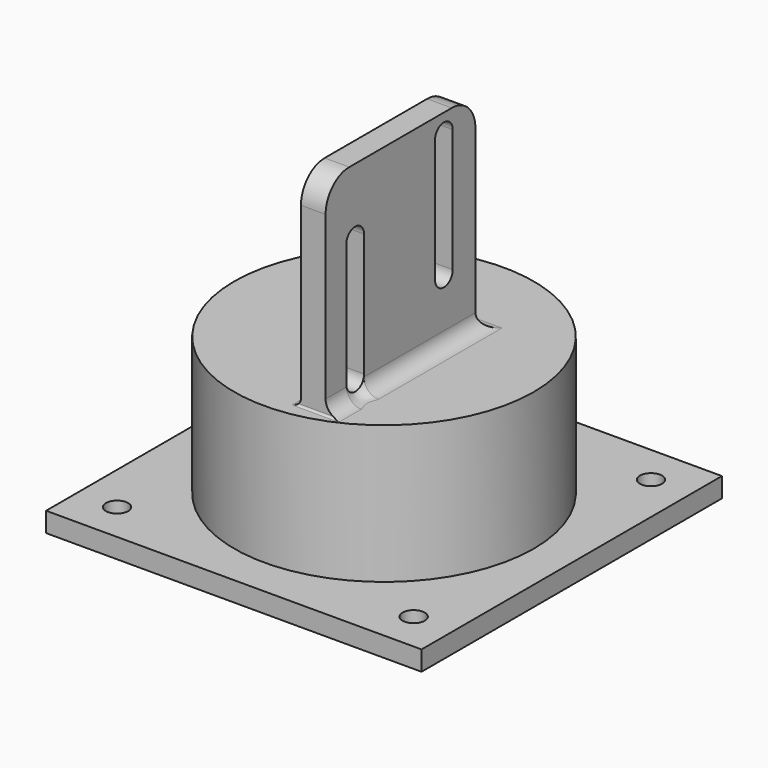
from build123d import *

# Parameters (mm, degrees)
SKETCH_W        = 76.2
SKETCH_H        = 76.2
PAD_DEPTH       = 4
SKETCH001_R     = 25.4
POCKET_DEPTH    = 4.001
SKETCH002_R     = 2.25
POCKET001_DEPTH = 4.001
SKETCH003_R     = 30.4
SKETCH003_R_2   = 25.4
PAD001_DEPTH    = 25
SKETCH004_R     = 30.4
PAD002_DEPTH    = 3
SKETCH005_W     = 6
SKETCH005_H     = 11
POCKET002_DEPTH = 32.001
SKETCH006_W     = 5
SKETCH006_H     = 38
PAD003_DEPTH    = 42
POCKET003_DEPTH = 33.351
FILLET_R        = 1.5
FILLET001_R     = 3
FILLET002_R     = 0.4
FILLET003_R     = 3
FILLET004_R     = 6


with BuildPart() as part:
    # Sketch → Pad (new body)
    with BuildSketch(Plane.XY):
        Rectangle(SKETCH_W, SKETCH_H)
    extrude(amount=PAD_DEPTH)

    # Sketch001 (on Face6 of Pad) → Pocket (cut, through all)
    with BuildSketch(Plane.XY.offset(4)):
        Circle(SKETCH001_R)
    extrude(amount=-POCKET_DEPTH, mode=Mode.SUBTRACT)

    # Sketch002 (on Face5 of Pocket) → Pocket001 (cut, through all)
    with BuildSketch(Plane.XY.offset(4)):
        with Locations((-30.1, -30.1)):
            Circle(SKETCH002_R)
        with Locations((30.1, -30.1)):
            Circle(SKETCH002_R)
        with Locations((30.1, 30.1)):
            Circle(SKETCH002_R)
        with Locations((-30.1, 30.1)):
            Circle(SKETCH002_R)
    extrude(amount=-POCKET001_DEPTH, mode=Mode.SUBTRACT)

    # Sketch003 (on Face5 of Pocket001) → Pad001 (join)
    with BuildSketch(Plane.XY.offset(4)):
        Circle(SKETCH003_R)
        Circle(SKETCH003_R_2, mode=Mode.SUBTRACT)
    extrude(amount=PAD001_DEPTH)

    # Sketch004 (on Face14 of Pad001) → Pad002 (join)
    with BuildSketch(Plane.XY.offset(29)):
        Circle(SKETCH004_R)
    extrude(amount=PAD002_DEPTH)

    # Sketch005 (on Face16 of Pad002) → Pocket002 (cut, through all)
    with BuildSketch(Plane.XY.offset(32)):
        Rectangle(SKETCH005_W, SKETCH005_H)
    extrude(amount=-POCKET002_DEPTH, mode=Mode.SUBTRACT)

    # Sketch006 (on Face16 of Pocket002) → Pad003 (join)
    with BuildSketch(Plane.XY.offset(32)):
        with Locations((7.25, -8)):
            Rectangle(SKETCH006_W, SKETCH006_H)
    extrude(amount=PAD003_DEPTH)

    # CopySketch007 (on Face21 of Pad003) → Pocket003 (cut, through all)
    with BuildSketch(Plane(origin=(4.75, 0, 0), x_dir=(0, -1, 0), z_dir=(-1, 0, 0))):
        with BuildLine():
            ThreePointArc((-5.25, 45.013309), (-3, 42.763309), (-0.75, 45.013309))
            Line((-0.75, 45.013309), (-0.75, 70.013309))
            ThreePointArc((-0.75, 70.013309), (-3, 72.263309), (-5.25, 70.013309))
            Line((-5.25, 45.013309), (-5.25, 70.013309))
        make_face()
        with BuildLine():
            ThreePointArc((17.25, 35.513309), (19.5, 33.263309), (21.75, 35.513309))
            Line((21.75, 35.513309), (21.75, 60.513309))
            ThreePointArc((21.75, 60.513309), (19.5, 62.763309), (17.25, 60.513309))
            Line((17.25, 35.513309), (17.25, 60.513309))
        make_face()
    extrude(amount=-POCKET003_DEPTH, mode=Mode.SUBTRACT)

    # Fillet
    fillet_edges = [part.edges().sort_by_distance(p)[0] for p in [
        (4.75, -8, 32),
    ]]
    fillet(fillet_edges, radius=FILLET_R)

    # Fillet001
    fillet001_edges = [part.edges().sort_by_distance(p)[0] for p in [
        (9.75, -8, 32),
    ]]
    fillet(fillet001_edges, radius=FILLET001_R)

    # Fillet002
    fillet002_edges = [part.edges().sort_by_distance(p)[0] for p in [
        (7.25, -27, 32),
    ]]
    fillet(fillet002_edges, radius=FILLET002_R)

    # Fillet003
    fillet003_edges = [part.edges().sort_by_distance(p)[0] for p in [
        (7.25, 11, 32),
    ]]
    fillet(fillet003_edges, radius=FILLET003_R)

    # Fillet004
    fillet004_edges = [part.edges().sort_by_distance(p)[0] for p in [
        (7.25, -27, 74),
        (7.25, 11, 74),
    ]]
    fillet(fillet004_edges, radius=FILLET004_R)


solid = part.part
